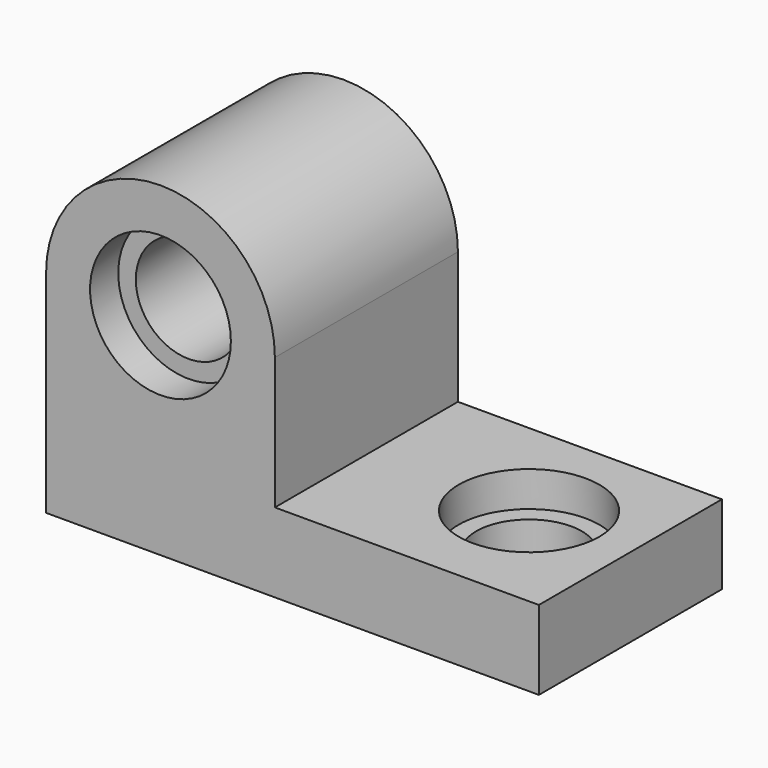
from build123d import *

# Parameters (mm, degrees)
F1_DEPTH       = 82.55
F4_D           = 38.1
F4_CBORE_D     = 50.8
F4_CBORE_DEPTH = 12.7
F5_D           = 38.1
F5_CBORE_D     = 50.8
F5_CBORE_DEPTH = 12.7


with BuildPart() as f1:
    # F0 (on Front) → F1 (new body)
    with BuildSketch(Plane.XZ):
        with BuildLine():
            Line((0, 76.2), (0, 0))
            Line((0, 0), (177.8, 0))
            Line((177.8, 0), (177.8, 28.575))
            Line((177.8, 28.575), (82.55, 28.575))
            Line((82.55, 28.575), (82.55, 76.2))
            ThreePointArc((82.55, 76.2), (41.275, 117.475), (0, 76.2))
        make_face()
    extrude(amount=F1_DEPTH)

    # F4 (through all)
    with Locations(Plane.XZ.offset(82.55)):
        with Locations((41.275, 76.2)):
            CounterBoreHole(F4_D / 2, F4_CBORE_D / 2, F4_CBORE_DEPTH)

    # F5 (through all)
    with Locations(Plane.XY.offset(28.575)):
        with Locations((139.7, -39.375536)):
            CounterBoreHole(F5_D / 2, F5_CBORE_D / 2, F5_CBORE_DEPTH)


solid = f1.part
